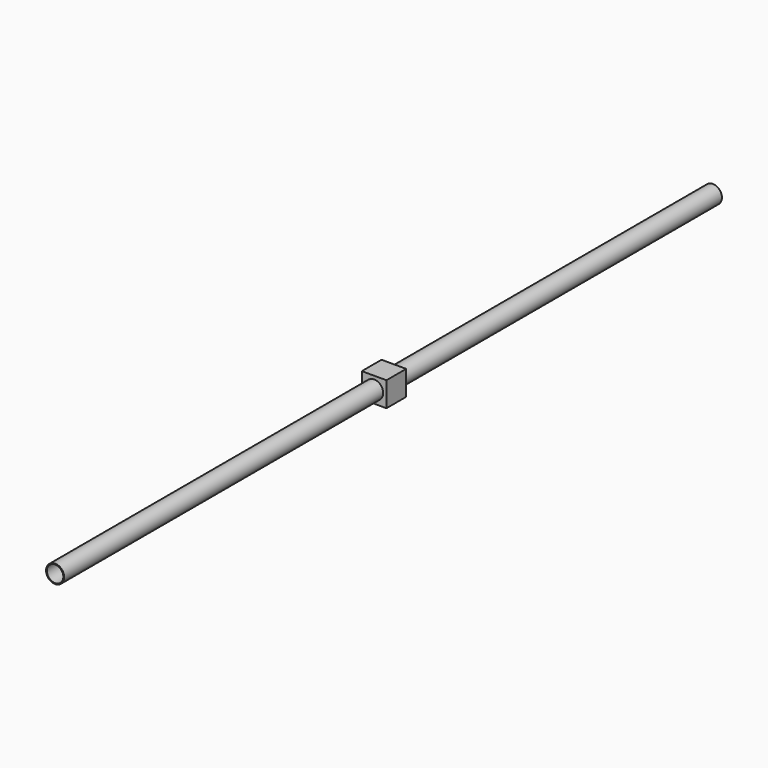
from build123d import *

# Parameters (mm, degrees)
F0_R          = 11
F0_R_2        = 10
F1_DEPTH      = 1000
F3_DEPTH      = 15
F3_DEPTH_BACK = 15


with BuildPart() as f1:
    # F0 (on Front) → F1 (new body)
    with BuildSketch(Plane.XZ):
        Circle(F0_R)
        Circle(F0_R_2, mode=Mode.SUBTRACT)
    extrude(amount=F1_DEPTH)

    # F2 (on Top) → F3 (join, two sides)
    with BuildSketch(Plane.XY) as f3_sk:
        Polygon((-15, -515), (15, -515), (15, -485), (0, -485), (-15, -485), align=None)
    extrude(amount=F3_DEPTH)
    extrude(f3_sk.sketch, amount=-F3_DEPTH_BACK)


solid = f1.part
